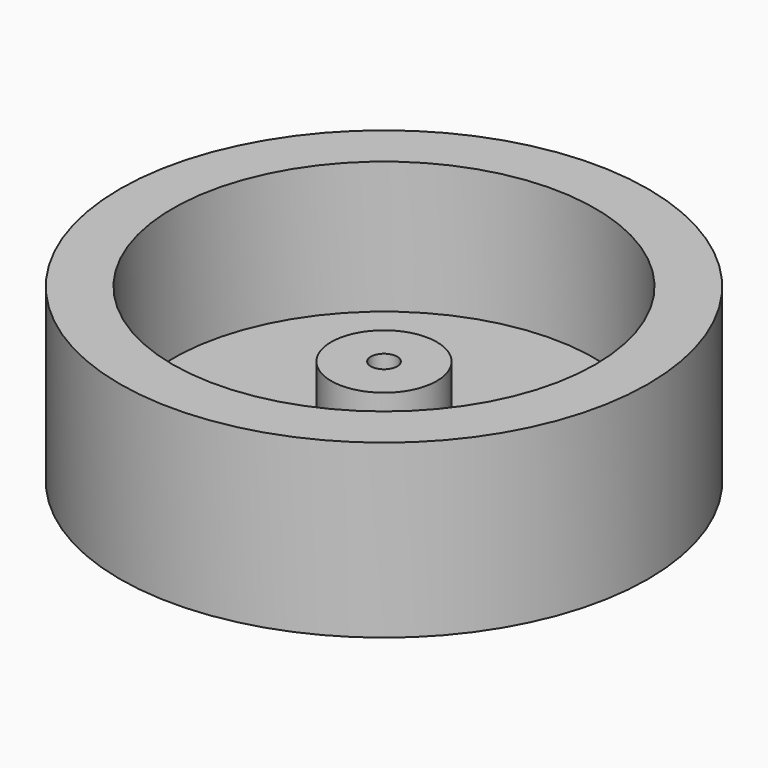
from build123d import *

# Parameters (mm, degrees)
F2_R     = 5
F3_DEPTH = 40.001


with BuildPart() as f1:
    # F0 (on Front) → F1 (revolve)
    with BuildSketch(Plane.XZ):
        Polygon((20, 20), (0, 20), (0, -20), (20, -20), (20, -15), (80, -15), (80, -20), (100, -20), (100, 45), (80, 45), (80, -5), (20, -5), align=None)
    revolve(axis=Axis((0, 0, 0), (0, 0, -1)))

    # F2 (on face) → F3 (cut, through all)
    with BuildSketch(Plane.XY.offset(20)):
        Circle(F2_R)
    extrude(amount=-F3_DEPTH, mode=Mode.SUBTRACT)


solid = f1.part
